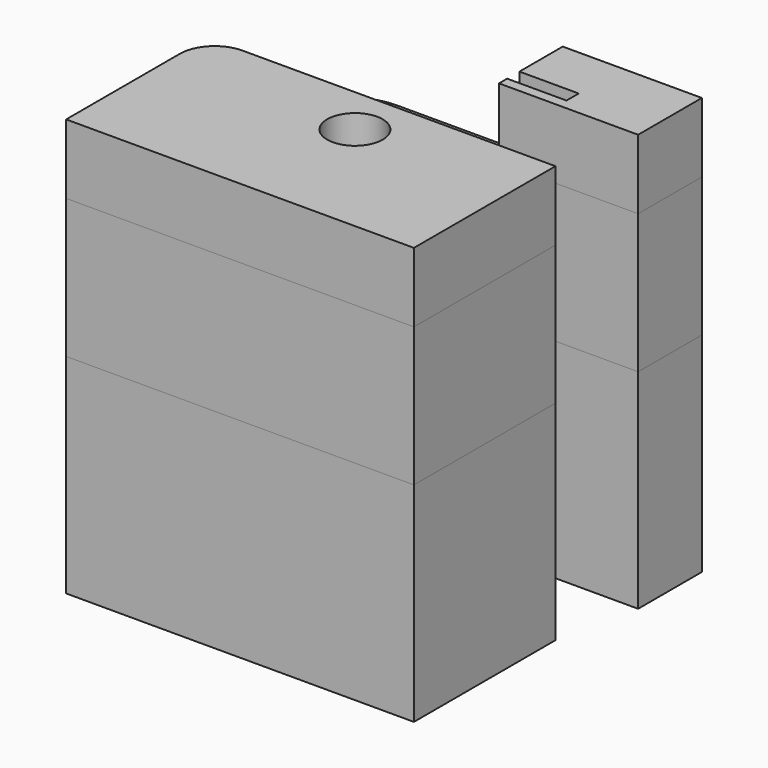
from build123d import *

# Parameters (mm, degrees)
F0_R     = 5.0590675923
F1_DEPTH = 38.1
F0_W     = 10.8292447668
F0_H     = 2.7940001507
F2_DEPTH = 25.4
F3_DEPTH = 25.4


with BuildPart() as f1:
    # F0 (on Top) → F1 (new body, symmetric)
    with BuildSketch(Plane.XY):
        with BuildLine():
            Line((-9.9059998493, 15.5328589049), (-12.7, 15.5328589049))
            ThreePointArc((-12.7, 15.5328589049), (-17.1901280605, 13.6729869654), (-19.05, 9.1828589049))
            Line((-19.05, 9.1828589049), (-19.05, -16.7670173082))
            Line((-19.05, -16.7670173082), (44.45, -16.7670173082))
            Line((44.45, -16.7670173082), (44.45, 15.5328589049))
            Line((44.45, 15.5328589049), (-9.9059998493, 15.5328589049))
        make_face()
        with Locations((15.0403995067, 6.5339445136)):
            Circle(F0_R, mode=Mode.SUBTRACT)
    extrude(amount=F1_DEPTH, both=True)


with BuildPart() as f1b:
    # F0 (on Top) → F1, piece 2 (new body, symmetric)
    with BuildSketch(Plane.XY):
        Polygon((22.1907552332, 45.0272753793), (22.1907552332, 35.136650705), (33.02, 35.136650705), (33.02, 32.3426505543), (22.1907552332, 32.3426505543), (22.1907552332, 30.48), (47.5907552332, 30.48), (47.5907552332, 45.0272753793), align=None)
    extrude(amount=F1_DEPTH, both=True)


with BuildPart() as f2:
    # F0 (on Top) → F2 (new body)
    with BuildSketch(Plane.XY):
        with BuildLine():
            Line((-12.7, 22.436650705), (-12.7, 15.5328589049))
            Line((-12.7, 15.5328589049), (-9.9059998493, 15.5328589049))
            Line((-9.9059998493, 15.5328589049), (-9.9059998493, 22.436650705))
            ThreePointArc((-9.9059998493, 22.436650705), (-7.0045996679, 29.4412503729), (0, 32.3426505543))
            Line((0, 32.3426505543), (22.1907552332, 32.3426505543))
            Line((22.1907552332, 32.3426505543), (22.1907552332, 35.136650705))
            Line((22.1907552332, 35.136650705), (0, 35.136650705))
            ThreePointArc((0, 35.136650705), (-8.9802561211, 31.4169068261), (-12.7, 22.436650705))
        make_face()
        with BuildLine():
            Line((-9.9059998493, 15.5328589049), (-12.7, 15.5328589049))
            ThreePointArc((-12.7, 15.5328589049), (-17.1901280605, 13.6729869654), (-19.05, 9.1828589049))
            Line((-19.05, 9.1828589049), (-19.05, -16.7670173082))
            Line((-19.05, -16.7670173082), (44.45, -16.7670173082))
            Line((44.45, -16.7670173082), (44.45, 15.5328589049))
            Line((44.45, 15.5328589049), (-9.9059998493, 15.5328589049))
        make_face()
        with Locations((15.0403995067, 6.5339445136)):
            Circle(F0_R, mode=Mode.SUBTRACT)
        with Locations((27.6053776166, 33.7396506297)):
            Rectangle(F0_W, F0_H)
        Polygon((22.1907552332, 45.0272753793), (22.1907552332, 35.136650705), (33.02, 35.136650705), (33.02, 32.3426505543), (22.1907552332, 32.3426505543), (22.1907552332, 30.48), (47.5907552332, 30.48), (47.5907552332, 45.0272753793), align=None)
    extrude(amount=F2_DEPTH)


with BuildPart() as f3:
    # F0 (on Top) → F3 (new body)
    with BuildSketch(Plane.XY):
        with BuildLine():
            Line((-12.7, 22.436650705), (-12.7, 15.5328589049))
            Line((-12.7, 15.5328589049), (-9.9059998493, 15.5328589049))
            Line((-9.9059998493, 15.5328589049), (-9.9059998493, 22.436650705))
            ThreePointArc((-9.9059998493, 22.436650705), (-7.0045996679, 29.4412503729), (0, 32.3426505543))
            Line((0, 32.3426505543), (22.1907552332, 32.3426505543))
            Line((22.1907552332, 32.3426505543), (22.1907552332, 35.136650705))
            Line((22.1907552332, 35.136650705), (0, 35.136650705))
            ThreePointArc((0, 35.136650705), (-8.9802561211, 31.4169068261), (-12.7, 22.436650705))
        make_face()
        with BuildLine():
            Line((-9.9059998493, 15.5328589049), (-12.7, 15.5328589049))
            ThreePointArc((-12.7, 15.5328589049), (-17.1901280605, 13.6729869654), (-19.05, 9.1828589049))
            Line((-19.05, 9.1828589049), (-19.05, -16.7670173082))
            Line((-19.05, -16.7670173082), (44.45, -16.7670173082))
            Line((44.45, -16.7670173082), (44.45, 15.5328589049))
            Line((44.45, 15.5328589049), (-9.9059998493, 15.5328589049))
        make_face()
        with Locations((15.0403995067, 6.5339445136)):
            Circle(F0_R, mode=Mode.SUBTRACT)
        with Locations((27.6053776166, 33.7396506297)):
            Rectangle(F0_W, F0_H)
        Polygon((22.1907552332, 45.0272753793), (22.1907552332, 35.136650705), (33.02, 35.136650705), (33.02, 32.3426505543), (22.1907552332, 32.3426505543), (22.1907552332, 30.48), (47.5907552332, 30.48), (47.5907552332, 45.0272753793), align=None)
    extrude(amount=F3_DEPTH)


solid = Compound([f1.part, f1b.part, f2.part, f3.part])
